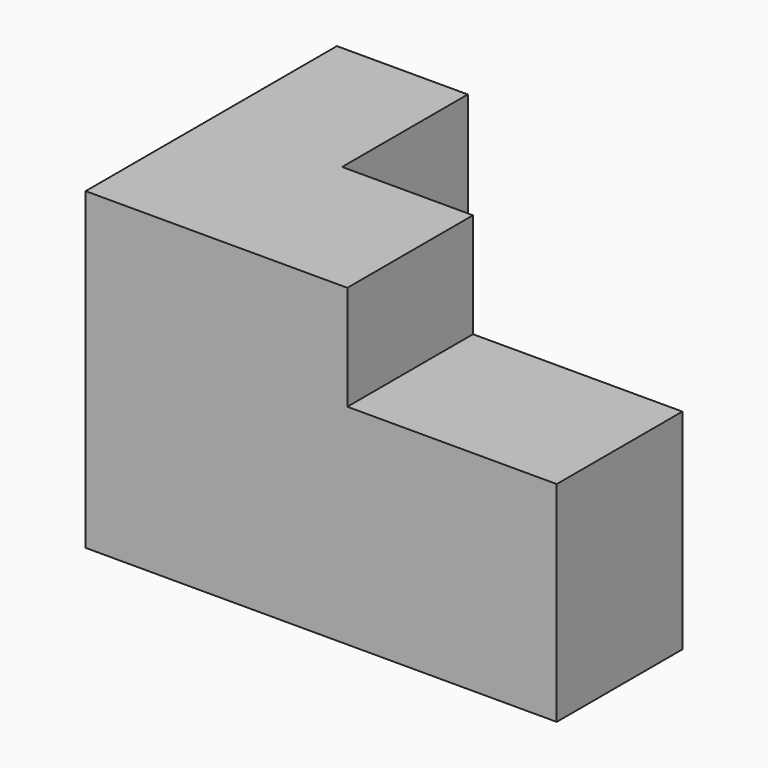
from build123d import *

# Parameters (mm, degrees)
F1_DEPTH = 76.2
F2_W     = 101.6
F2_H     = 50.8
F3_DEPTH = 76.201


with BuildPart() as f1:
    # F0 (on Top) → F1 (new body, symmetric)
    with BuildSketch(Plane.XY):
        Polygon((-50.8, 76.2), (-114.3, 76.2), (-114.3, -76.2), (114.3, -76.2), (114.3, 0), (-50.8, 0), align=None)
    extrude(amount=F1_DEPTH, both=True)

    # F2 (on face) → F3 (cut, through all)
    with BuildSketch(Plane(origin=(0, 0, 0), x_dir=(-1, 0, 0), z_dir=(0, 1, 0))):
        with Locations((-63.5, 50.8)):
            Rectangle(F2_W, F2_H)
    extrude(amount=-F3_DEPTH, mode=Mode.SUBTRACT)


solid = f1.part
